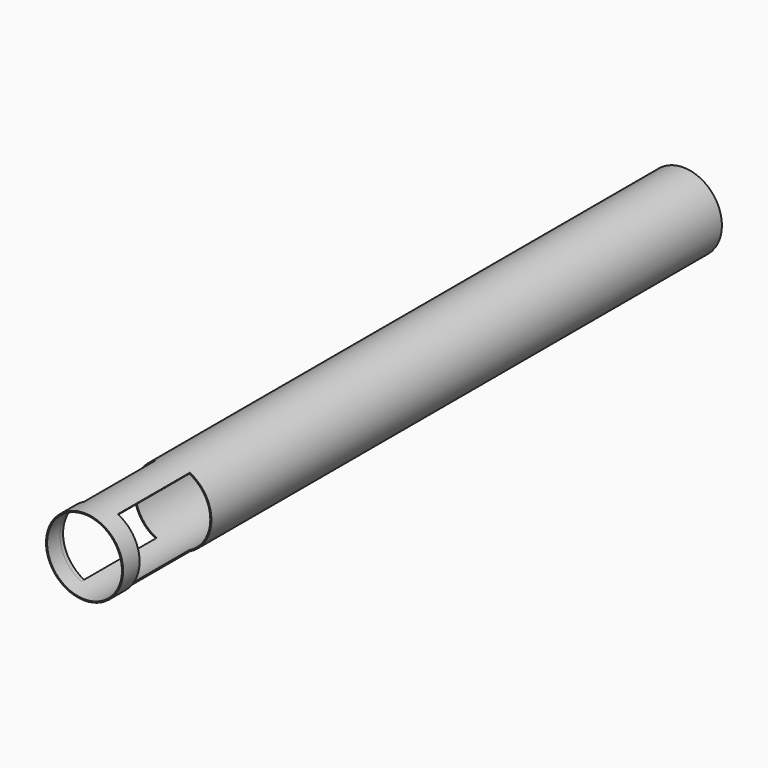
from build123d import *

# Parameters (mm, degrees)
F0_R     = 103
F0_R_2   = 100
F1_DEPTH = 2000
F4_DEPTH = 240
F6_DEPTH = 12


with BuildPart() as f1:
    # F0 (on Front) → F1 (new body)
    with BuildSketch(Plane.XZ):
        Circle(F0_R)
        Circle(F0_R_2, mode=Mode.SUBTRACT)
    extrude(amount=F1_DEPTH)

    # F3 (on offset) → F4 (cut)
    with BuildSketch(Plane.XZ.offset(1945)):
        with BuildLine():
            Line((14.631978, -30), (45.590599, -93.474581))
            ThreePointArc((45.590599, -93.474581), (104, 0), (45.590599, 93.474581))
            Line((45.590599, 93.474581), (15.458162, 31.693928))
            Line((15.458162, 31.693928), (-15.458162, 31.693928))
            Line((-15.458162, 31.693928), (-45.590599, 93.474581))
            ThreePointArc((-45.590599, 93.474581), (-104, 0), (-45.590599, -93.474581))
            Line((-45.590599, -93.474581), (-14.631978, -30))
            Line((-14.631978, -30), (14.631978, -30))
        make_face()
    extrude(amount=-F4_DEPTH, mode=Mode.SUBTRACT)

    # F5 (on face) → F6 (cut)
    with BuildSketch(Plane(origin=(0, -1945, 0), x_dir=(-1, 0, 0), z_dir=(0, 1, 0))):
        with BuildLine():
            Line((-44.494671, -91.227596), (-7.343568, -15.056546))
            Line((-7.343568, -15.056546), (-7.343568, 15.056546))
            Line((-7.343568, 15.056546), (-44.494671, 91.227596))
            ThreePointArc((-44.494671, 91.227596), (-101.5, 0), (-44.494671, -91.227596))
        make_face()
        with BuildLine():
            Line((7.343568, 15.056546), (7.343568, -15.056546))
            Line((7.343568, -15.056546), (44.494671, -91.227596))
            ThreePointArc((44.494671, -91.227596), (101.5, 0), (44.494671, 91.227596))
            Line((44.494671, 91.227596), (7.343568, 15.056546))
        make_face()
    extrude(amount=-F6_DEPTH, mode=Mode.SUBTRACT)


solid = f1.part
